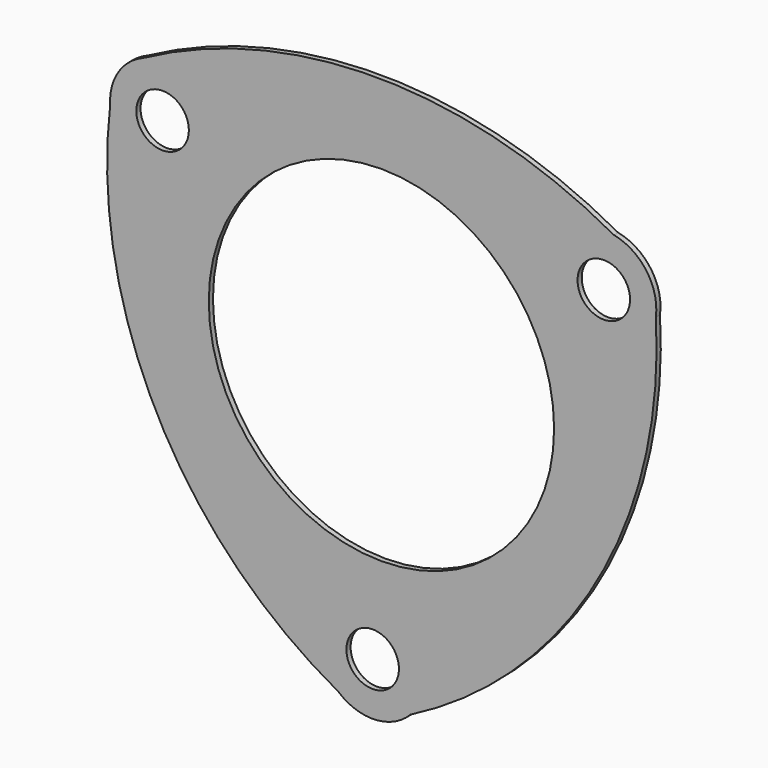
from build123d import *

# Parameters (mm, degrees)
F0_R     = 5
F0_R_2   = 32.872613
F1_DEPTH = 1


with BuildPart() as f1:
    # F0 (on Front) → F1 (new body)
    with BuildSketch(Plane.XZ):
        with BuildLine():
            ThreePointArc((46.049733, 45.948055), (1.296426, 57.692988), (-43.592357, 46.476968))
            ThreePointArc((-43.592357, 46.476968), (-48.328635, 42.544925), (-49.86458, 36.583871))
            ThreePointArc((-49.86458, 36.583871), (-41.025652, -12.165247), (-6.433794, -47.633634))
            ThreePointArc((-6.433794, -47.633634), (0.539909, -50.063103), (7.279389, -47.044118))
            ThreePointArc((7.279389, -47.044118), (42.801966, -13.076553), (54.017242, 34.775997))
            ThreePointArc((54.017242, 34.775997), (52.252068, 41.944238), (46.049733, 45.948055))
        make_face()
        with Locations((0.110416, -40.07233)):
            Circle(F0_R, mode=Mode.SUBTRACT)
        with Locations((1.776745, 9.772437)):
            Circle(F0_R_2, mode=Mode.SUBTRACT)
        with Locations((-39.88299, 37.190387)):
            Circle(F0_R, mode=Mode.SUBTRACT)
        with Locations((44.110416, 36.137905)):
            Circle(F0_R, mode=Mode.SUBTRACT)
    extrude(amount=F1_DEPTH)


solid = f1.part
